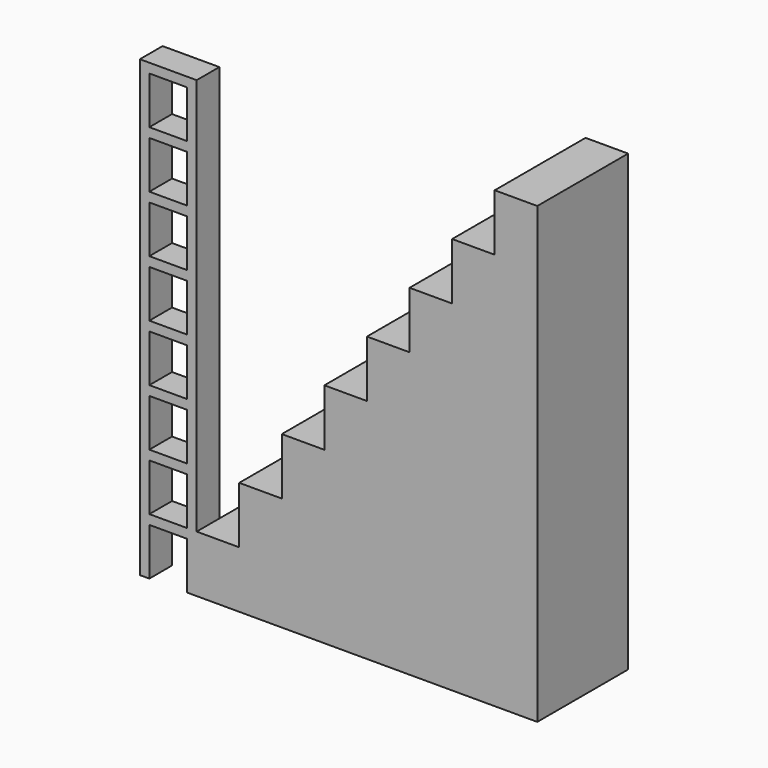
from build123d import *

# Parameters (mm, degrees)
F0_W     = 228.6
F0_H     = 304.8
F1_DEPTH = 609.6
F2_W     = 203.199796
F2_H     = 50.8
F3_DEPTH = 152.4
F4_W     = 152.4
F4_H     = 254
F4_W_2   = 381
F4_W_3   = 609.6
F5_DEPTH = 558.8
F4_W_4   = 304.8
F4_H_2   = 1752.6
F4_W_5   = 838.2
F4_W_6   = 1066.8
F4_H_3   = 203.2
F6_DEPTH = 25.4


with BuildPart() as f1:
    # F0 (on Front) → F1 (new body)
    with BuildSketch(Plane.XZ):
        Polygon((-1828.8, 304.8), (-1828.8, 0), (0, 0), (0, 304.8), (-1600.2, 304.8), align=None)
        Polygon((-1600.2, 304.8), (0, 304.8), (0, 609.6), (-1371.6, 609.6), (-1600.2, 609.6), align=None)
        Polygon((-1371.6, 609.6), (0, 609.6), (0, 914.4), (-1143, 914.4), (-1371.6, 914.4), align=None)
        Polygon((-1143, 914.4), (0, 914.4), (0, 1219.2), (-914.4, 1219.2), (-1143, 1219.2), align=None)
        Polygon((-914.4, 1219.2), (0, 1219.2), (0, 1524), (-685.8, 1524), (-914.4, 1524), align=None)
        Polygon((-685.8, 1524), (0, 1524), (0, 1828.8), (-457.2, 1828.8), (-685.8, 1828.8), align=None)
        Polygon((-457.2, 1828.8), (0, 1828.8), (0, 2133.6), (-228.6, 2133.6), (-457.2, 2133.6), align=None)
        with Locations((-114.3, 2286)):
            Rectangle(F0_W, F0_H)
    extrude(amount=F1_DEPTH)

    # F2 (on face) → F3 (join)
    with BuildSketch(Plane.XZ.offset(609.6)):
        Polygon((-1879.600102, 0), (-1828.8, 0), (-1828.8, 2438.4), (-1879.600102, 2438.4), (-1879.600102, 2387.6), (-1879.600102, 2340.422869), (-1879.600102, 2133.6), (-1879.600102, 2082.8), (-1879.600102, 1828.8), (-1879.600102, 1778), (-1879.600102, 1524), (-1879.600102, 1473.2), (-1879.600102, 1219.2), (-1879.600102, 1168.4), (-1879.600102, 914.4), (-1879.600102, 863.6), (-1879.600102, 609.6), (-1879.600102, 558.8), (-1879.600102, 304.8), (-1879.600102, 254), align=None)
        with Locations((-1981.2, 279.4)):
            Rectangle(F2_W, F2_H)
        with Locations((-1981.2, 2413)):
            Rectangle(F2_W, F2_H)
        Polygon((-2082.799898, 0), (-2082.799898, 254), (-2082.799898, 304.8), (-2082.799898, 558.8), (-2082.799898, 609.6), (-2082.799898, 863.6), (-2082.799898, 914.4), (-2082.799898, 1168.4), (-2082.799898, 1219.2), (-2082.799898, 1473.2), (-2082.799898, 1524), (-2082.799898, 1778), (-2082.799898, 1828.8), (-2082.799898, 2082.8), (-2082.799898, 2133.6), (-2082.799898, 2340.422869), (-2082.799898, 2387.6), (-2082.799898, 2438.4), (-2133.6, 2438.4), (-2133.6, 0), align=None)
        with Locations((-1981.2, 2108.2)):
            Rectangle(F2_W, F2_H)
        with Locations((-1981.2, 1803.4)):
            Rectangle(F2_W, F2_H)
        with Locations((-1981.2, 1498.6)):
            Rectangle(F2_W, F2_H)
        with Locations((-1981.2, 1193.8)):
            Rectangle(F2_W, F2_H)
        with Locations((-1981.2, 889)):
            Rectangle(F2_W, F2_H)
        with Locations((-1981.2, 584.2)):
            Rectangle(F2_W, F2_H)
    extrude(amount=-F3_DEPTH)

    # F4 (on face) → F5 (cut)
    with BuildSketch(Plane(origin=(0, 0, 0), x_dir=(-1, 0, 0), z_dir=(0, 1, 0))):
        with Locations((787.4, 1346.2)):
            Rectangle(F4_W, F4_H)
        with Locations((901.7, 1041.4)):
            Rectangle(F4_W_2, F4_H)
        with Locations((1016, 736.6)):
            Rectangle(F4_W_3, F4_H)
    extrude(amount=-F5_DEPTH, mode=Mode.SUBTRACT)

    # F4 (on face) → F6 (join)
    with BuildSketch(Plane(origin=(0, 0, 0), x_dir=(-1, 0, 0), z_dir=(0, 1, 0))):
        with Locations((177.8, 927.1)):
            Rectangle(F4_W_4, F4_H_2)
        with Locations((508, 927.1)):
            Rectangle(F4_W_4, F4_H_2)
        with Locations((1130.3, 431.8)):
            Rectangle(F4_W_5, F4_H)
        with Locations((1244.6, 152.4)):
            Rectangle(F4_W_6, F4_H_3)
    extrude(amount=F6_DEPTH)


solid = f1.part
